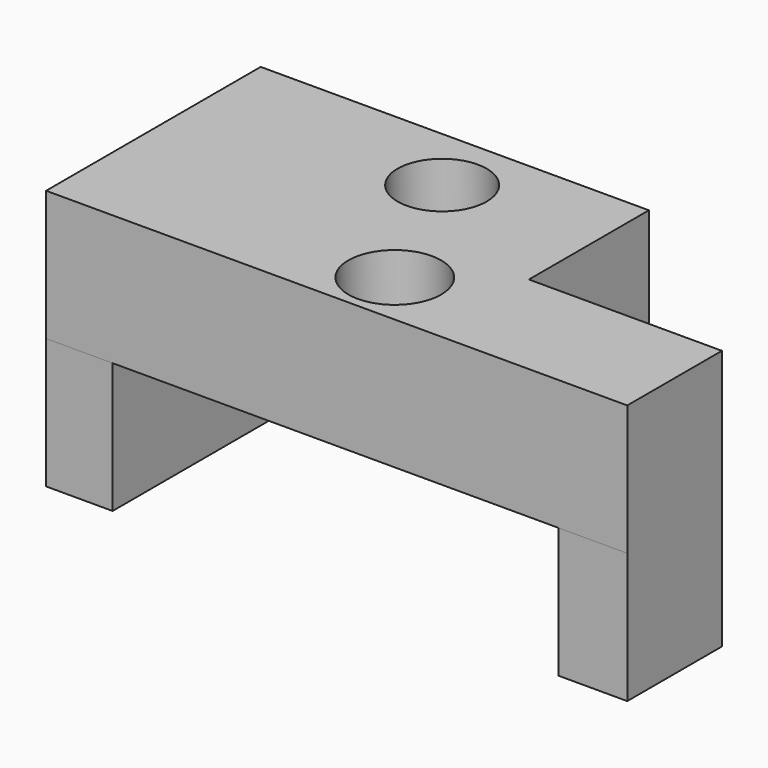
from build123d import *

# Parameters (mm, degrees)
F0_R     = 9.053064
F0_R_2   = 8.693298
F1_DEPTH = 25.4
F2_W     = 12.980345
F2_H     = 52.346967
F2_W_2   = 13.405934
F2_H_2   = 23.087991
F3_DEPTH = 25.4


with BuildPart() as f1:
    # F0 (on Top) → F1 (new body)
    with BuildSketch(Plane.XY):
        Polygon((26.918259, 29.258976), (-48.835892, 29.258976), (-48.835892, -23.087991), (26.918259, -23.087991), (64.582542, -23.087991), (64.582542, 0), (26.918259, 0), align=None)
        with Locations((10.533232, -12.235573)):
            Circle(F0_R, mode=Mode.SUBTRACT)
        with Locations((-2.8727, 16.065838)):
            Circle(F0_R_2, mode=Mode.SUBTRACT)
    extrude(amount=-F1_DEPTH)

    # F2 (on face) → F3 (join)
    with BuildSketch(Plane(origin=(0, 0, -25.4), x_dir=(1, 0, 0), z_dir=(0, 0, -1))):
        with Locations((-42.34572, -3.085492)):
            Rectangle(F2_W, F2_H)
        with Locations((57.879575, 11.543995)):
            Rectangle(F2_W_2, F2_H_2)
    extrude(amount=F3_DEPTH)


solid = f1.part
